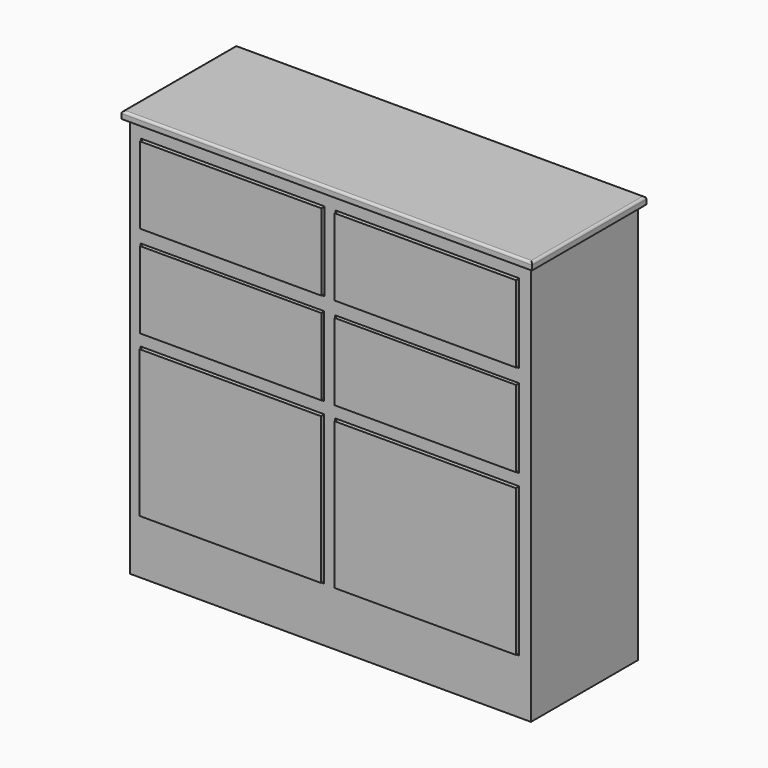
from build123d import *

# Parameters (mm, degrees)
F0_W          = 1066.8
F0_H          = 1066.8
F1_DEPTH      = 355.6
F2_W          = 1092.2
F2_H          = 381
F3_DEPTH      = 19.05
F4_R          = 6.35
F5_W          = 489.0489578247
F5_H          = 210.7685804367
F5_H_2        = 396.8377411366
F6_DEPTH      = 330.2
F7_W          = 482.892036438
F7_H          = 204.61165905
F7_W_2        = 482.9529523849
F7_H_2        = 390.7417356968
F8_DEPTH      = 330.2
F8_DEPTH_BACK = 6.35


with BuildPart() as f1:
    # F0 (on Front) → F1 (new body)
    with BuildSketch(Plane.XZ):
        with Locations((-533.4, 533.4)):
            Rectangle(F0_W, F0_H)
    extrude(amount=F1_DEPTH)

    # F2 (on face) → F3 (join)
    with BuildSketch(Plane.XY.offset(1066.8)):
        with Locations((-533.4, -177.8)):
            Rectangle(F2_W, F2_H)
    extrude(amount=F3_DEPTH)

    # F4
    f4_edges = [f1.edges().sort_by_distance(p)[0] for p in [
        (-533.4, 12.7, 1085.85),
        (-1079.5, -177.8, 1085.85),
        (-533.4, -368.3, 1085.85),
        (12.7, -177.8, 1085.85),
    ]]
    fillet(f4_edges, radius=F4_R)

    # F5 (on face) → F6 (cut)
    with BuildSketch(Plane.XZ.offset(355.6)):
        with Locations((-793.9267158508, 923.8921999931)):
            Rectangle(F5_W, F5_H)
        with Locations((-275.7667158508, 923.8921999931)):
            Rectangle(F5_W, F5_H)
        with Locations((-276.6835210876, 677.9517097816)):
            Rectangle(F5_W, F5_H)
        with Locations((-794.8435210876, 677.9517097816)):
            Rectangle(F5_W, F5_H)
        with Locations((-794.8435210876, 343.4552997351)):
            Rectangle(F5_W, F5_H_2)
        with Locations((-276.6835210876, 343.4552997351)):
            Rectangle(F5_W, F5_H_2)
    extrude(amount=-F6_DEPTH, mode=Mode.SUBTRACT)

    # F7 (on face) → F8 (join, two sides)
    with BuildSketch(Plane.XZ.offset(355.6)) as f8_sk:
        with Locations((-793.9267158508, 923.8921999931)):
            Rectangle(F7_W, F7_H)
        with Locations((-793.9267158508, 678.5281999931)):
            Rectangle(F7_W, F7_H)
        with Locations((-276.0715158508, 923.8921999931)):
            Rectangle(F7_W, F7_H)
        with Locations((-276.0715158508, 678.5281999931)):
            Rectangle(F7_W, F7_H)
        with Locations((-794.8435210876, 343.4552997351)):
            Rectangle(F7_W_2, F7_H_2)
        with Locations((-276.6835210876, 343.4552997351)):
            Rectangle(F7_W_2, F7_H_2)
    extrude(amount=-F8_DEPTH)
    extrude(f8_sk.sketch, amount=F8_DEPTH_BACK)


solid = f1.part
